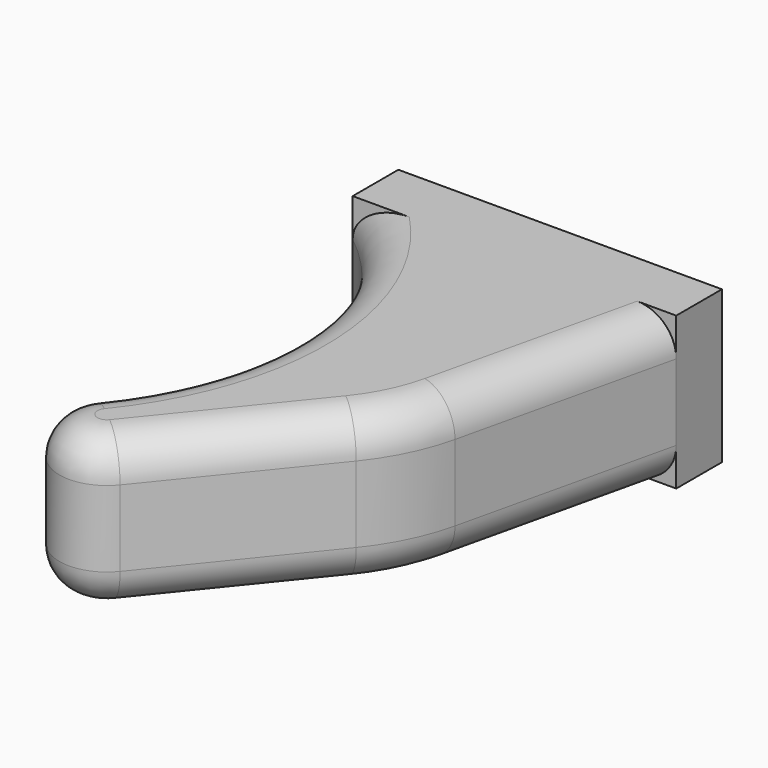
from build123d import *

# Parameters (mm, degrees)
F1_DEPTH = 4
F2_R     = 10
F3_R     = 2
F4_W     = 17
F4_H     = 8
F5_DEPTH = 3


with BuildPart() as f1:
    # F0 (on Top) → F1 (new body, symmetric)
    with BuildSketch(Plane.XY):
        with BuildLine():
            Line((31.1703724303, -13.5), (34.3061052263, 0))
            Line((34.3061052263, 0), (17.3061052263, 0))
            ThreePointArc((17.3061052263, 0), (22.6203428996, -9.4465185643), (19.5969211067, -19.8550129652))
            ThreePointArc((19.5969211067, -19.8550129652), (19.9679460836, -23.371024977), (23.4839580953, -23))
            Line((23.4839580953, -23), (31.1703724303, -13.5))
        make_face()
    extrude(amount=F1_DEPTH, both=True)

    # F2
    f2_edges = [f1.edges().sort_by_distance(p)[0] for p in [
        (31.170372, -13.5, 0),
    ]]
    fillet(f2_edges, radius=F2_R)

    # F3
    f3_edges = [f1.edges().sort_by_distance(p)[0] for p in [
        (32.998368, -5.630086, 4),
        (30.935867, -13.38549, 4),
        (26.603989, -19.143807, 4),
        (19.967946, -23.371025, 4),
        (22.620343, -9.446519, 4),
        (22.620343, -9.446519, -4),
        (19.967946, -23.371025, -4),
        (26.603989, -19.143807, -4),
        (30.935867, -13.38549, -4),
        (32.998368, -5.630086, -4),
    ]]
    fillet(f3_edges, radius=F3_R)

    # F4 (on face) → F5 (join)
    with BuildSketch(Plane(origin=(0, 0, 0), x_dir=(-1, 0, 0), z_dir=(0, 1, 0))):
        with Locations((-25.8061052263, 0)):
            Rectangle(F4_W, F4_H)
    extrude(amount=F5_DEPTH)


solid = f1.part
